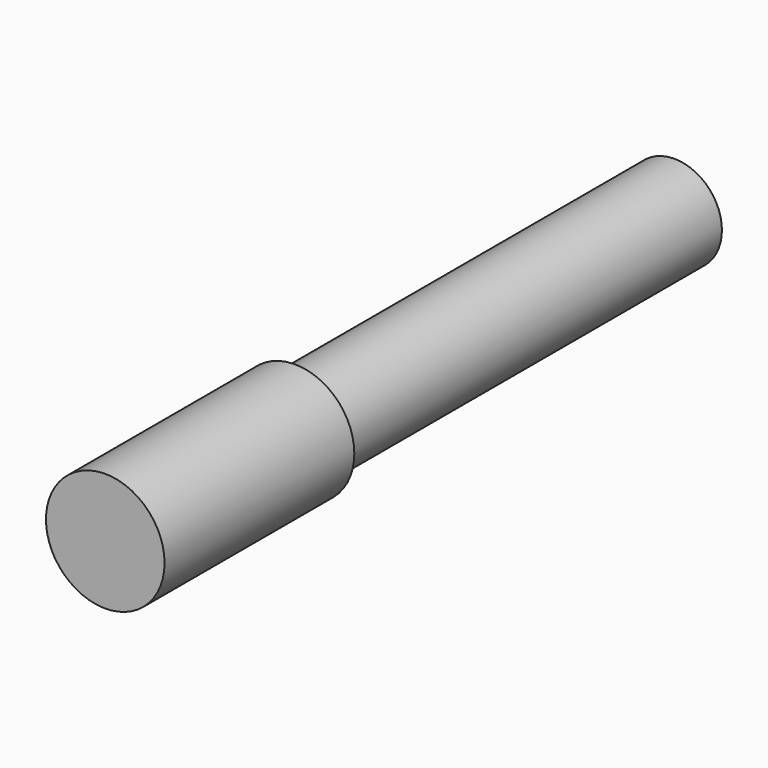
from build123d import *

# Parameters (mm, degrees)
F0_R     = 10
F1_DEPTH = 100
F2_R     = 12.5
F2_R_2   = 10
F3_DEPTH = 50


with BuildPart() as f1:
    # F0 (on Front) → F1 (new body)
    with BuildSketch(Plane.XZ):
        Circle(F0_R)
        Circle(F0_R)
    extrude(amount=F1_DEPTH)

    # F2 (on face) → F3 (join)
    with BuildSketch(Plane.XZ.offset(100)):
        Circle(F2_R)
        Circle(F2_R_2, mode=Mode.SUBTRACT)
        Circle(F2_R)
        Circle(F2_R_2, mode=Mode.SUBTRACT)
        Circle(F2_R_2)
    extrude(amount=F3_DEPTH)


solid = f1.part
